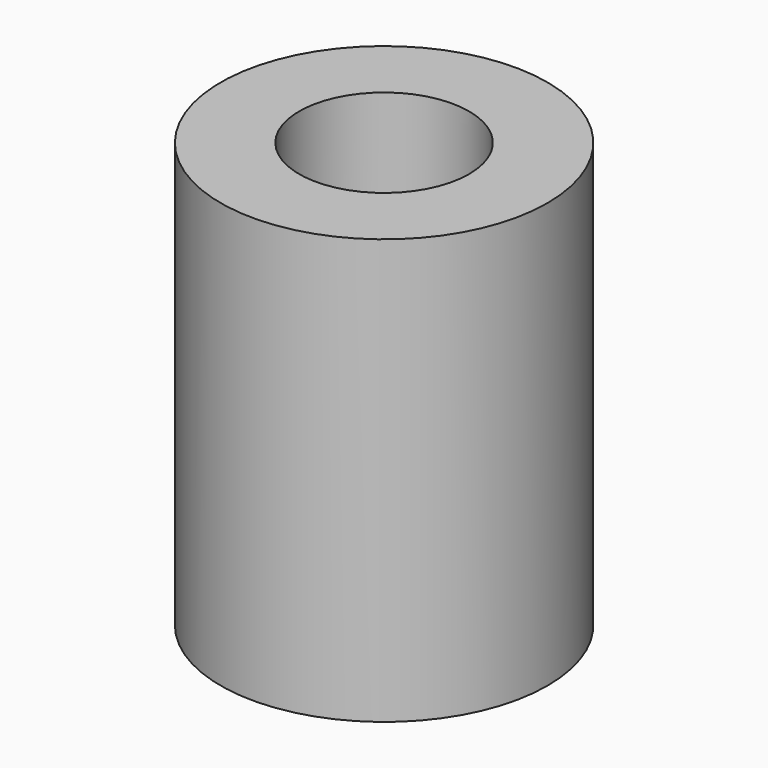
from build123d import *

# Parameters (mm, degrees)
SKETCH_R   = 5
SKETCH_R_2 = 2.6
PAD_DEPTH  = 13


with BuildPart() as part:
    # Sketch → Pad (new body)
    with BuildSketch(Plane.XY):
        Circle(SKETCH_R)
        Circle(SKETCH_R_2, mode=Mode.SUBTRACT)
    extrude(amount=PAD_DEPTH)


solid = part.part
